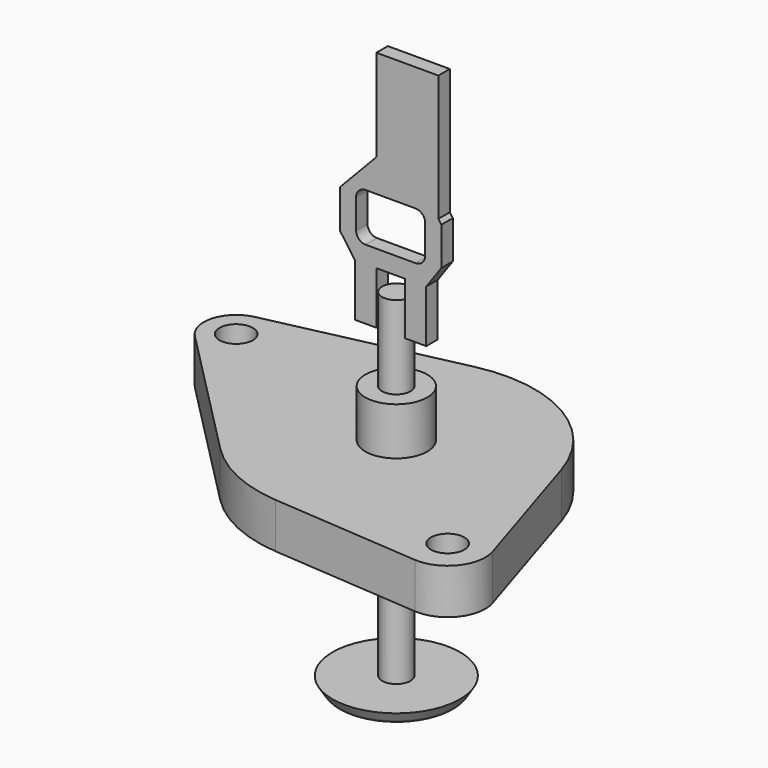
from build123d import *

# Parameters (mm, degrees)
F0_R          = 3.5
F0_R_2        = 6.5
F1_DEPTH      = 9.5
F2_R          = 19.325
F2_R_2        = 14.125
F3_DEPTH      = 6.3
F4_R          = 11.125
F5_DEPTH      = 4
F6_R          = 6.5
F6_R_2        = 3
F7_DEPTH      = 15
F7_DEPTH_BACK = 10
F10_R         = 1.5
F11_W         = 14.5
F11_H         = 10.1
F12_DEPTH     = 1.5
F13_R         = 2


with BuildPart() as f1:
    # F0 (on Top) → F1 (new body)
    with BuildSketch(Plane.XY):
        with BuildLine():
            Line((-6.2660353757, 28.31495719), (-45.4692772605, 19.6393692721))
            ThreePointArc((-45.4692772605, 19.6393692721), (-50.5213204148, 14.9267537589), (-48.8416396041, 8.2252198015))
            Line((-48.8416396041, 8.2252198015), (-20.6481688998, -20.3630331995))
            ThreePointArc((-20.6481688998, -20.3630331995), (-12.1906315945, -26.313276142), (-2.183023906, -28.9177178668))
            Line((-2.183023906, -28.9177178668), (28.8904588593, -31.2634823573))
            ThreePointArc((28.8904588593, -31.2634823573), (35.6746611406, -28.2950606187), (37.0204069292, -21.0131723688))
            Line((37.0204069292, -21.0131723688), (27.6610892621, 8.7100023441))
            ThreePointArc((27.6610892621, 8.7100023441), (14.5095019325, 25.1092483693), (-6.2660353757, 28.31495719))
        make_face()
        with Locations((29.485144682, -23.3858971453)):
            Circle(F0_R, mode=Mode.SUBTRACT)
        with Locations((-44, 13)):
            Circle(F0_R, mode=Mode.SUBTRACT)
        Circle(F0_R_2, mode=Mode.SUBTRACT)
    extrude(amount=F1_DEPTH)

    # F2 (on face) → F3 (join)
    with BuildSketch(Plane(origin=(0, 0, 0), x_dir=(1, 0, 0), z_dir=(0, 0, -1))):
        Circle(F2_R)
        Circle(F2_R_2, mode=Mode.SUBTRACT)
    extrude(amount=F3_DEPTH)

    # F4 (on face) → F5 (cut)
    with BuildSketch(Plane(origin=(0, 0, 0), x_dir=(1, 0, 0), z_dir=(0, 0, -1))):
        Circle(F4_R)
    extrude(amount=-F5_DEPTH, mode=Mode.SUBTRACT)


with BuildPart() as f7:
    # F6 (on face) → F7 (new body, two sides)
    with BuildSketch(Plane.XY.offset(9.5)) as f7_sk:
        Circle(F6_R)
        Circle(F6_R_2, mode=Mode.SUBTRACT)
    extrude(amount=-F7_DEPTH)
    extrude(f7_sk.sketch, amount=F7_DEPTH_BACK)


with BuildPart() as f9:
    # F8 (on Front) → F9 (revolve)
    with BuildSketch(Plane.XZ):
        Polygon((0, -38.7), (0, 36.9), (-2.975, 36.9), (-2.975, -34), (-13.375, -34), (-11.7, -36.7), (-6.5, -36.7), (-4.55, -38.1), (-2.975, -38.1), (-2.975, -38.7), align=None)
    revolve(axis=Axis((0, 0, -0.9), (0, 0, 1)))

    # F10
    f10_edges = [f9.edges().sort_by_distance(p)[0] for p in [
        (11.7, 0, -36.7),
    ]]
    fillet(f10_edges, radius=F10_R)


with BuildPart() as f12:
    # F11 (on Front) → F12 (new body, symmetric)
    with BuildSketch(Plane.XZ):
        Polygon((2.975, 40.9), (2.975, 29.9), (7.475, 29.9), (7.475, 40.9), (10.65, 45.3656328917), (10.65, 53.3656328917), (10.025, 54.2446944845), (10.025, 80.7), (-2.975, 80.7), (-2.975, 61.4144735986), (-10.65, 53.3656328917), (-10.65, 45.3656328917), (-7.475, 40.9), (-7.475, 29.9), (-2.975, 29.9), (-2.975, 40.9), align=None)
        with Locations((0, 49.55)):
            Rectangle(F11_W, F11_H, mode=Mode.SUBTRACT)
    extrude(amount=F12_DEPTH, both=True)

    # F13
    f13_edges = [f12.edges().sort_by_distance(p)[0] for p in [
        (7.25, 0, 54.6),
        (7.25, 0, 44.5),
        (-7.25, 0, 44.5),
        (-7.25, 0, 54.6),
    ]]
    fillet(f13_edges, radius=F13_R)


solid = Compound([f1.part, f7.part, f9.part, f12.part])
